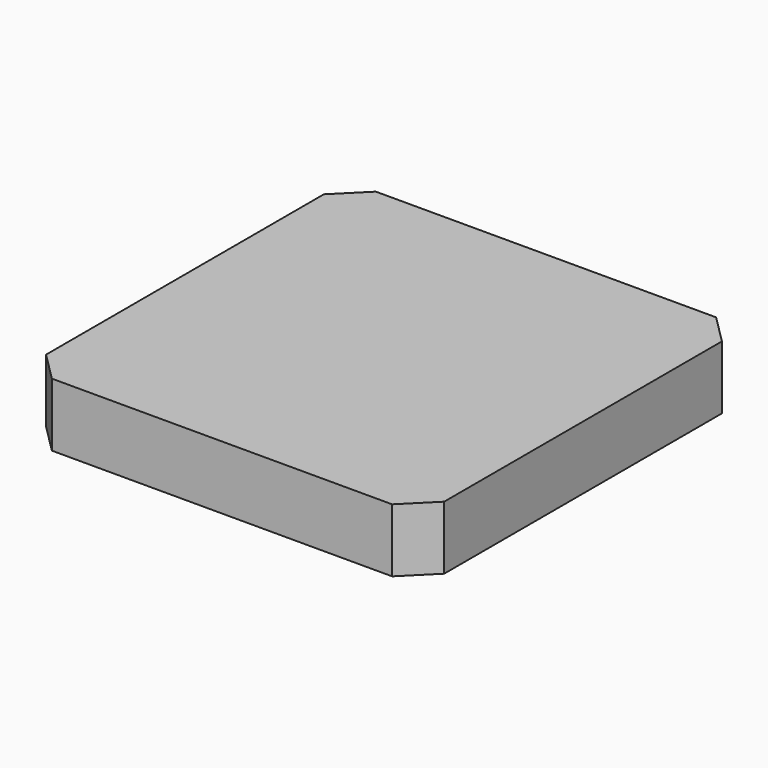
from build123d import *

# Parameters (mm, degrees)
F0_W     = 110.220984
F0_H     = 112.123684
F1_DEPTH = 17.561754
F2_SIZE  = 8


with BuildPart() as f1:
    # F0 (on Top) → F1 (new body)
    with BuildSketch(Plane.XY):
        Rectangle(F0_W, F0_H)
    extrude(amount=F1_DEPTH)

    # F2
    f2_edges = [f1.edges().sort_by_distance(p)[0] for p in [
        (-55.110492, 56.061842, 8.780877),
        (-55.110492, -56.061842, 8.780877),
        (55.110492, 56.061842, 8.780877),
        (55.110492, -56.061842, 8.780877),
    ]]
    chamfer(f2_edges, length=F2_SIZE)


solid = f1.part
